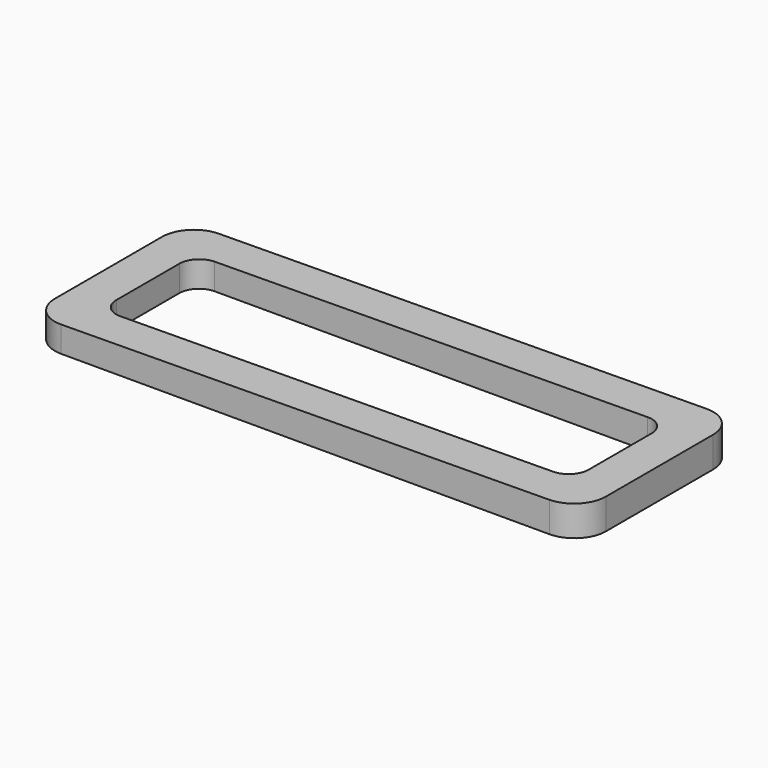
from build123d import *

# Parameters (mm, degrees)
F4_DEPTH = 31.75
F6_DEPTH = 4.937656
F7_R     = 5.08


with BuildPart() as f4:
    # F3 (on face) → F4 (new body)
    with BuildSketch(Plane.XZ):
        Polygon((279.348608, 0), (279.348608, 4.936656), (190.452309, 4.125477), (190.452309, 0), align=None)
    extrude(amount=F4_DEPTH)

    # F5 (on face) → F6 (cut, through all)
    with BuildSketch(Plane(origin=(0, 0, 0), x_dir=(1, 0, 0), z_dir=(0, 0, -1))):
        with BuildLine():
            Line((269.823608, 25.4), (199.977309, 25.4))
            ThreePointArc((199.977309, 25.4), (197.732245, 24.470064), (196.802309, 22.225))
            Line((196.802309, 22.225), (196.802309, 9.525))
            ThreePointArc((196.802309, 9.525), (197.732245, 7.279936), (199.977309, 6.35))
            Line((199.977309, 6.35), (269.823608, 6.35))
            ThreePointArc((269.823608, 6.35), (272.068672, 7.279936), (272.998608, 9.525))
            Line((272.998608, 9.525), (272.998608, 22.225))
            ThreePointArc((272.998608, 22.225), (272.068672, 24.470064), (269.823608, 25.4))
        make_face()
    extrude(amount=-F6_DEPTH, mode=Mode.SUBTRACT)

    # F7
    f7_edges = [f4.edges().sort_by_distance(p)[0] for p in [
        (279.348608, -31.75, 2.468328),
        (190.452309, -31.75, 2.062739),
        (190.452309, 0, 2.062739),
        (279.348608, 0, 2.468328),
    ]]
    fillet(f7_edges, radius=F7_R)


solid = f4.part
